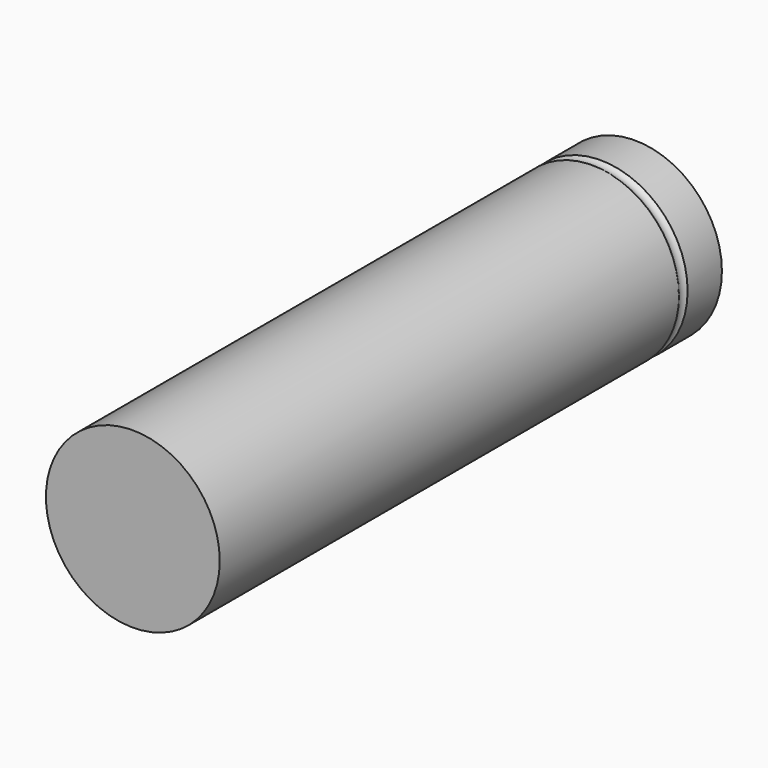
from build123d import *

# Parameters (mm, degrees)
TORUS_R                = 0.75
CYLINDER065_R          = 9
CYLINDER065_DEPTH      = 65
CUT094_PLACEMENT_ANGLE = 90


with BuildPart() as torus:
    # Torus → Torus (revolve)
    with BuildSketch(Plane(origin=(0, 0, 60), x_dir=(1, 0, 0), z_dir=(0, -1, 0))):
        with Locations((9.5, 0)):
            Circle(TORUS_R)
    revolve(axis=Axis((0, 0, 60), (0, 0, 1)))


with BuildPart() as cut094:
    # Cylinder065 → Cylinder065 (new body)
    with BuildSketch(Plane.XY):
        Circle(CYLINDER065_R)
    extrude(amount=CYLINDER065_DEPTH)

    # Cut094: cut Torus
    add(torus.part, mode=Mode.SUBTRACT)


with BuildPart() as cut094_1:
    # Cut094 placement: moved
    add(cut094.part.moved(Location((-10, -295, -62))).rotate(Axis((-10, -295, -62), (-1, 0, 0)), CUT094_PLACEMENT_ANGLE))


solid = cut094_1.part
